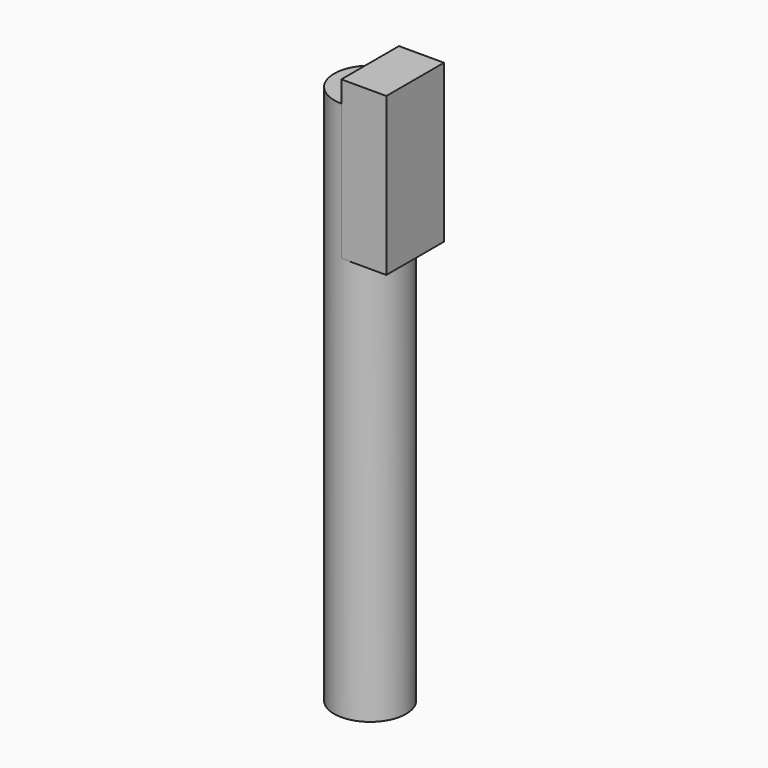
from build123d import *

# Parameters (mm, degrees)
F0_R     = 40
F1_DEPTH = 600
F2_W     = 50
F2_H     = 175
F3_DEPTH = 40
F4_R     = 30
F5_DEPTH = 500


with BuildPart() as f1:
    # F0 (on Top) → F1 (new body)
    with BuildSketch(Plane.XY):
        Circle(F0_R)
    extrude(amount=F1_DEPTH)

    # F2 (on Front) → F3 (join, symmetric)
    with BuildSketch(Plane.XZ):
        with Locations((25, 536.151046)):
            Rectangle(F2_W, F2_H)
    extrude(amount=F3_DEPTH, both=True)

    # F4 (on face) → F5 (cut)
    with BuildSketch(Plane(origin=(0, 0, 0), x_dir=(1, 0, 0), z_dir=(0, 0, -1))):
        Circle(F4_R)
    extrude(amount=-F5_DEPTH, mode=Mode.SUBTRACT)


solid = f1.part
